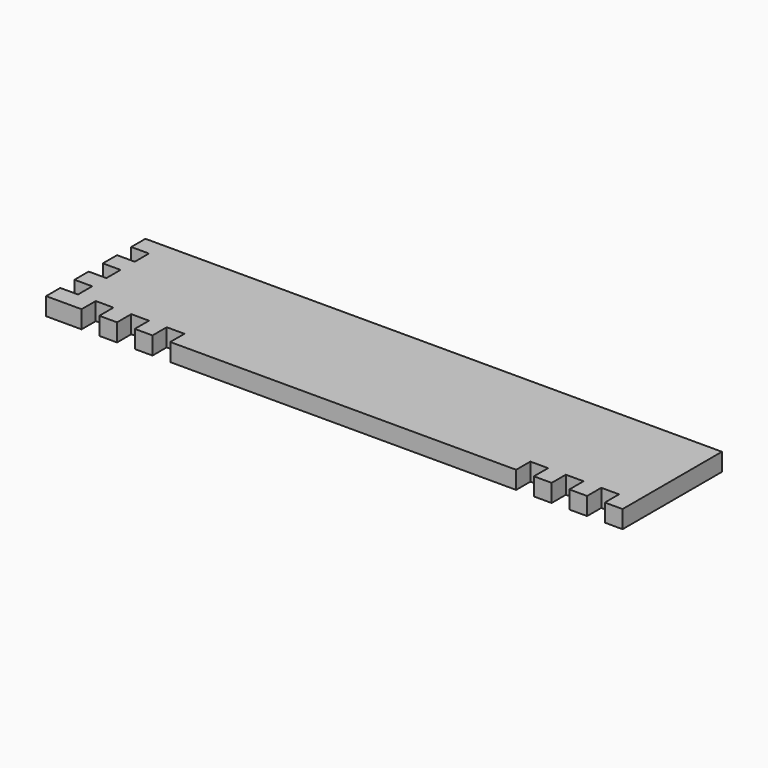
from build123d import *

# Parameters (mm, degrees)
F0_W     = 412.75
F0_H     = 88.9
F1_DEPTH = 12.7
F2_W     = 12.7
F2_H     = 12.7
F3_DEPTH = 25.4
F4_W     = 12.7
F4_H     = 12.7
F5_DEPTH = 25.4
F6_W     = 12.7
F6_H     = 12.7
F7_DEPTH = 25.4


with BuildPart() as f1:
    # F0 (on Top) → F1 (new body)
    with BuildSketch(Plane.XY):
        with Locations((206.375, 44.45)):
            Rectangle(F0_W, F0_H)
    extrude(amount=F1_DEPTH)

    # F2 (on face) → F3 (cut)
    with BuildSketch(Plane.XY.offset(12.7)):
        with Locations((6.35, 19.05)):
            Rectangle(F2_W, F2_H)
        with Locations((6.35, 69.85)):
            Rectangle(F2_W, F2_H)
        with Locations((6.35, 44.45)):
            Rectangle(F2_W, F2_H)
    extrude(amount=-F3_DEPTH, mode=Mode.SUBTRACT)

    # F4 (on face) → F5 (cut)
    with BuildSketch(Plane.XY.offset(12.7)):
        with Locations((393.7, 6.35)):
            Rectangle(F4_W, F4_H)
        with Locations((368.3, 6.35)):
            Rectangle(F4_W, F4_H)
        with Locations((342.9, 6.35)):
            Rectangle(F4_W, F4_H)
    extrude(amount=-F5_DEPTH, mode=Mode.SUBTRACT)

    # F6 (on face) → F7 (cut)
    with BuildSketch(Plane.XY.offset(12.7)):
        with Locations((31.75, 6.35)):
            Rectangle(F6_W, F6_H)
        with Locations((57.15, 6.35)):
            Rectangle(F6_W, F6_H)
        with Locations((82.55, 6.35)):
            Rectangle(F6_W, F6_H)
    extrude(amount=-F7_DEPTH, mode=Mode.SUBTRACT)


solid = f1.part
